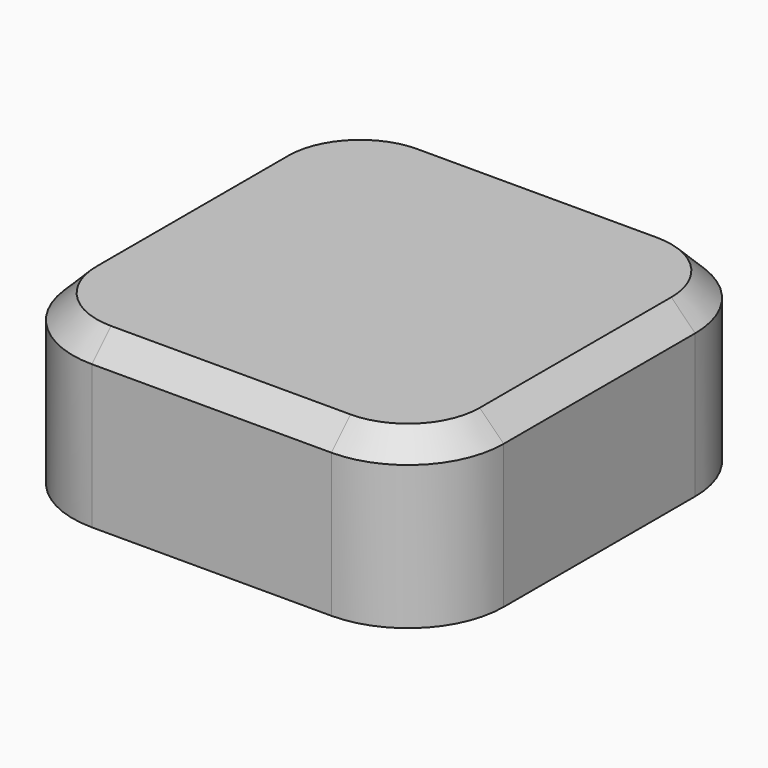
from build123d import *

# Parameters (mm, degrees)
F1_DEPTH = 35
F2_SIZE  = 5


with BuildPart() as f1:
    # F0 (on Top) → F1 (new body)
    with BuildSketch(Plane.XY):
        with BuildLine():
            Line((88.641453, 39.457253), (38.641453, 39.457253))
            ThreePointArc((38.641453, 39.457253), (24.499317, 33.599388), (18.641453, 19.457253))
            Line((18.641453, 19.457253), (18.641453, -30.542747))
            ThreePointArc((18.641453, -30.542747), (24.499317, -44.684883), (38.641453, -50.542747))
            Line((38.641453, -50.542747), (88.641453, -50.542747))
            ThreePointArc((88.641453, -50.542747), (102.783589, -44.684883), (108.641453, -30.542747))
            Line((108.641453, -30.542747), (108.641453, 19.457253))
            ThreePointArc((108.641453, 19.457253), (102.783589, 33.599388), (88.641453, 39.457253))
        make_face()
    extrude(amount=F1_DEPTH)

    # F2
    f2_edges = [f1.edges().sort_by_distance(p)[0] for p in [
        (18.641453, -5.542747, 35),
    ]]
    chamfer(f2_edges, length=F2_SIZE)


solid = f1.part
